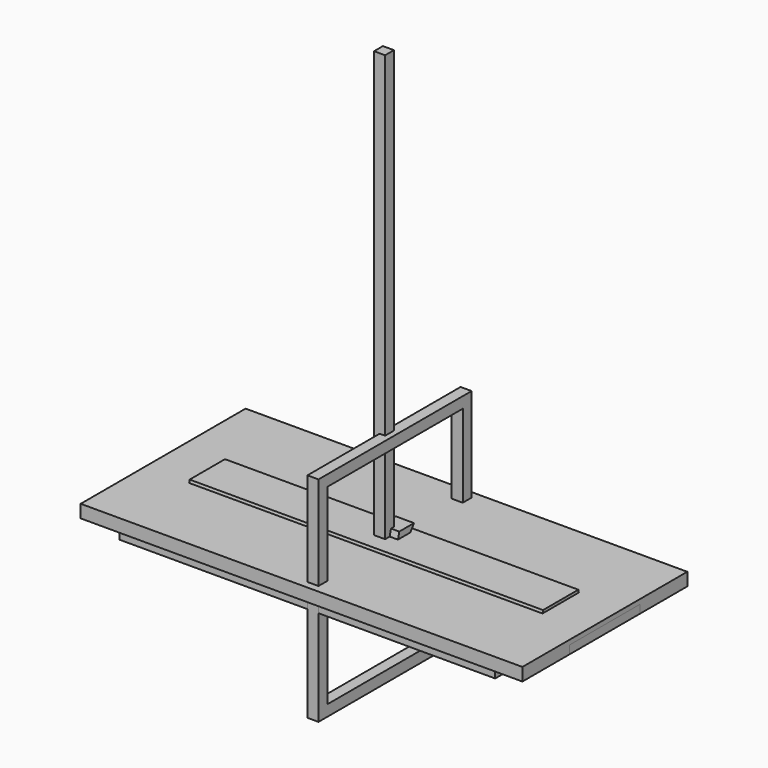
from build123d import *

# Parameters (mm, degrees)
F0_W           = 1524
F0_H           = 711.2
F1_DEPTH       = 44.45
F2_W           = 38.1
F2_H           = 584.2
F3_DEPTH       = 38.1
F4_W           = 660.4
F4_H           = 736.6
F4_W_2         = 584.2
F4_H_2         = 660.4
F5_DEPTH       = 38.1
F6_W           = 38.1
F6_H           = 38.1
F7_DEPTH       = 647.7
F8_W           = 38.1
F8_H           = 38.1
F9_DEPTH       = 1524
F10_W          = 1524
F10_H          = 304.8
F11_DEPTH      = 28.575
F12_W          = 1295.4
F12_H          = 38.1
F13_DEPTH      = 38.1
F15_DEPTH      = 38.1
F16_W          = 25.4
F16_H          = 25.4
F17_DEPTH      = 647.7
F19_DEPTH      = 609.6
F20_R          = 50.8
F21_DEPTH      = 31.75
F23_DEPTH      = 47.625
F23_DEPTH_BACK = 15.875


with BuildPart() as f1:
    # F0 (on Top) → F1 (new body)
    with BuildSketch(Plane.XY):
        Rectangle(F0_W, F0_H)
    extrude(amount=F1_DEPTH)


with BuildPart() as f3:
    # F2 (on face) → F3 (new body)
    with BuildSketch(Plane(origin=(0, 0, 0), x_dir=(1, 0, 0), z_dir=(0, 0, -1))):
        Rectangle(F2_W, F2_H)
        Polygon((647.7, -292.1), (19.05, -292.1), (-19.05, -292.1), (-647.7, -292.1), (-647.7, -330.2), (647.7, -330.2), align=None)
        Polygon((-19.05, 292.1), (19.05, 292.1), (647.7, 292.1), (647.7, 330.2), (-647.7, 330.2), (-647.7, 292.1), align=None)
    extrude(amount=F3_DEPTH)


with BuildPart() as f5:
    # F4 (on Right) → F5 (new body)
    with BuildSketch(Plane.YZ):
        Rectangle(F4_W, F4_H)
        Rectangle(F4_W_2, F4_H_2, mode=Mode.SUBTRACT)
    extrude(amount=F5_DEPTH)


with BuildPart() as f7:
    # F6 (on Right) → F7 (new body, symmetric)
    with BuildSketch(Plane.YZ):
        Rectangle(F6_W, F6_H)
    extrude(amount=F7_DEPTH, both=True)


with BuildPart() as f9:
    # F8 (on Top) → F9 (new body)
    with BuildSketch(Plane.XY):
        Rectangle(F8_W, F8_H)
    extrude(amount=F9_DEPTH)


with BuildPart() as f11:
    # F10 (on Top) → F11 (new body)
    with BuildSketch(Plane.XY):
        Rectangle(F10_W, F10_H)
    extrude(amount=F11_DEPTH)


with BuildPart() as f13:
    # F12 (on face) → F13 (new body)
    with BuildSketch(Plane(origin=(0, 0, 0), x_dir=(1, 0, 0), z_dir=(0, 0, -1))):
        Polygon((-647.7, 38.1), (-647.7, 76.2), (-647.7, 152.4), (-685.8, 152.4), (-685.8, -114.3), (-647.7, -114.3), align=None)
        Polygon((647.7, 152.4), (647.7, 76.2), (647.7, 38.1), (647.7, -114.3), (685.8, -114.3), (685.8, 152.4), align=None)
        with Locations((0, 57.15)):
            Rectangle(F12_W, F12_H)
    extrude(amount=F13_DEPTH)


with BuildPart() as f15:
    # F14 (on Right) → F15 (new body)
    with BuildSketch(Plane.YZ):
        Polygon((76.2, 19.05), (-76.2, 19.05), (-76.2, -19.05), (76.2, -19.05), (508, -285.75), (508, -247.65), align=None)
    extrude(amount=F15_DEPTH)


with BuildPart() as f17:
    # F16 (on Right) → F17 (new body, symmetric)
    with BuildSketch(Plane.YZ):
        Rectangle(F16_W, F16_H)
    extrude(amount=F17_DEPTH, both=True)


with BuildPart() as f19:
    # F18 (on Right) → F19 (new body, symmetric)
    with BuildSketch(Plane.YZ):
        Polygon((114.3, -25.4), (114.3, 25.4), (82.55, 25.4), (76.2, 53.975), (0, 53.975), (-76.2, 53.975), (-82.55, 25.4), (-114.3, 25.4), (-114.3, -25.4), align=None)
    extrude(amount=F19_DEPTH, both=True)


with BuildPart() as f21:
    # F20 (on Right) → F21 (new body)
    with BuildSketch(Plane.YZ):
        Circle(F20_R)
    extrude(amount=F21_DEPTH)

    # F22 (on Right) → F23 (join, two sides)
    with BuildSketch(Plane.YZ) as f23_sk:
        with BuildLine():
            Line((69.85, 76.2), (38.1, 76.2))
            Line((38.1, 76.2), (6.35, 76.2))
            Line((6.35, 76.2), (-12.3051705798, 3.1420975483))
            ThreePointArc((-12.3051705798, 3.1420975483), (-5.3449000573, -11.5205053439), (10.3452730182, -7.3665002667))
            Line((10.3452730182, -7.3665002667), (69.85, 76.2))
        make_face()
    extrude(amount=F23_DEPTH)
    extrude(f23_sk.sketch, amount=-F23_DEPTH_BACK)


solid = Compound([f1.part, f3.part, f5.part, f7.part, f9.part, f11.part, f13.part, f15.part, f17.part, f19.part, f21.part])
